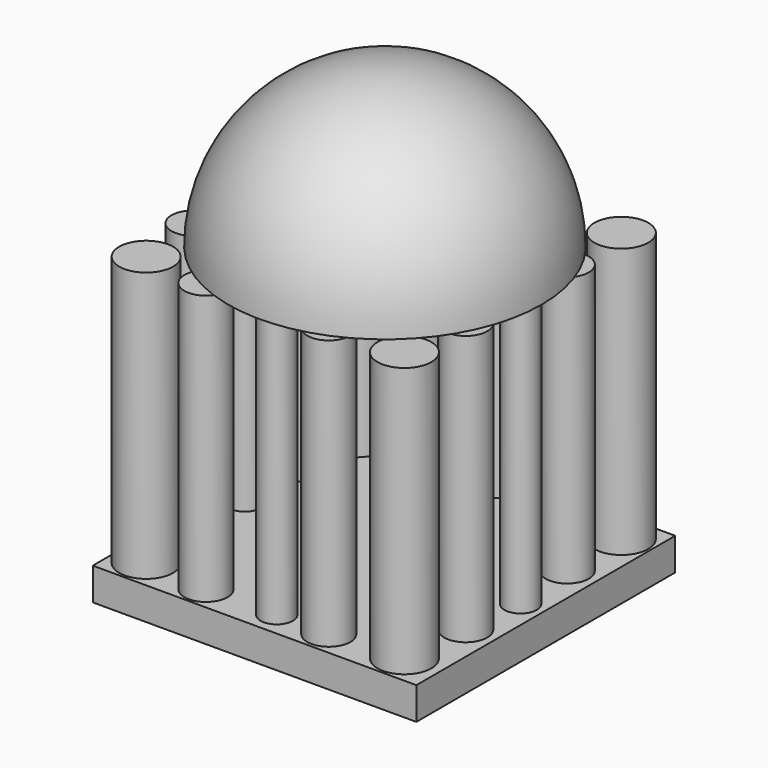
from build123d import *

# Parameters (mm, degrees)
F0_W     = 76.2
F0_H     = 76.2
F1_DEPTH = 7.62
F2_R     = 6.35
F3_DEPTH = 63.5
F4_R     = 3.81
F4_R_2   = 5.08
F5_DEPTH = 63.5
F8_T     = -2.54


with BuildPart() as f1:
    # F0 (on Top) → F1 (new body)
    with BuildSketch(Plane.XY):
        with Locations((-0.5621163353, 0.8783638477)):
            Rectangle(F0_W, F0_H)
    extrude(amount=F1_DEPTH)

    # F2 (on face) → F3 (join)
    with BuildSketch(Plane.XY.offset(7.62)):
        with Locations((-31.6567011178, -30.260970816)):
            Circle(F2_R)
        with Locations((-31.6567011178, 31.751845032)):
            Circle(F2_R)
        with Locations((30.6261945516, 31.751845032)):
            Circle(F2_R)
        with Locations((29.1686486453, -30.260970816)):
            Circle(F2_R)
    extrude(amount=F3_DEPTH)

    # F4 (on face) → F5 (join)
    with BuildSketch(Plane.XY.offset(7.62)):
        with Locations((-32.6304073501, 0)):
            Circle(F4_R)
        with Locations((0, 33.1239178777)):
            Circle(F4_R)
        with Locations((32.3036797345, 0)):
            Circle(F4_R)
        with Locations((0, -31.3924998045)):
            Circle(F4_R)
        with Locations((-16.5303461254, -31.5624736249)):
            Circle(F4_R_2)
        with Locations((12.2462743893, -31.3837528229)):
            Circle(F4_R_2)
        with Locations((30.7939685881, -14.2602371052)):
            Circle(F4_R_2)
        with Locations((30.7500511408, 15.6675372273)):
            Circle(F4_R_2)
        with Locations((12.8753008321, 32.9157449305)):
            Circle(F4_R_2)
        with Locations((-17.8443100303, 32.9642146826)):
            Circle(F4_R_2)
        with Locations((-33.1468991935, 16.6424196213)):
            Circle(F4_R_2)
        with Locations((-33.2393012941, -14.4505742937)):
            Circle(F4_R_2)
    extrude(amount=F5_DEPTH)


with BuildPart() as f7:
    # F6 (on Front) → F7 (revolve)
    with BuildSketch(Plane.XZ):
        with BuildLine():
            Line((0.349506241, 71.2905749679), (37.2722359268, 71.2905749679))
            ThreePointArc((37.2722359268, 71.2905749679), (26.4578187817, 97.3988875086), (0.349506241, 108.2133046536))
            Line((0.349506241, 108.2133046536), (0.349506241, 71.2905749679))
        make_face()
    revolve(axis=Axis((0.349506241, 0, 89.7519398107), (0, 0, 1)))

    # F8
    f8_openings = [f7.faces().sort_by_distance(p)[0] for p in [
        (0.349506, 0, 71.290575),
    ]]
    offset(amount=F8_T, openings=f8_openings)


solid = Compound([f1.part, f7.part])
